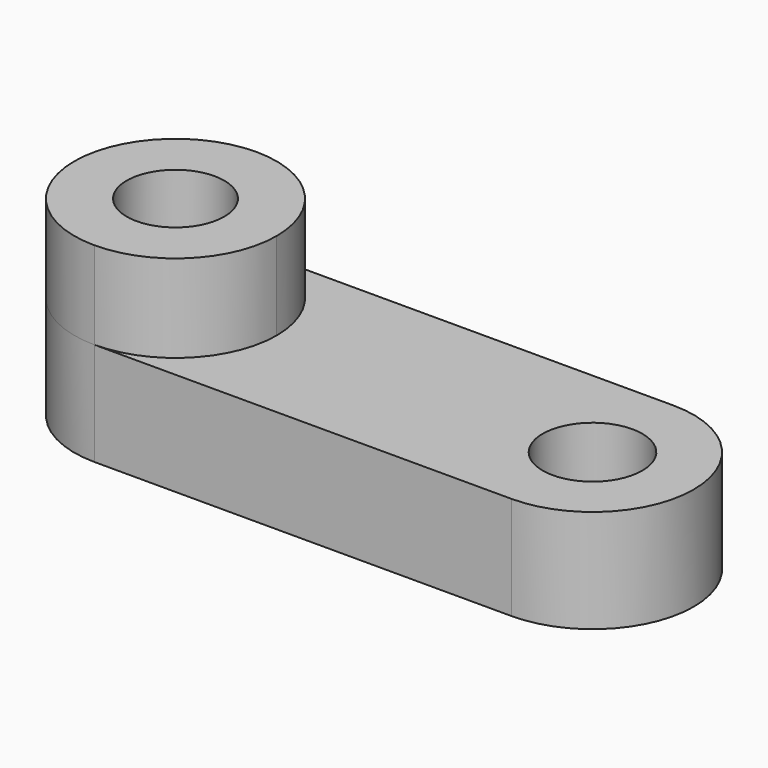
from build123d import *

# Parameters (mm, degrees)
F0_R     = 12.734731
F1_DEPTH = 49.784
F0_R_2   = 13.010998
F2_DEPTH = 26.924


with BuildPart() as f1:
    # F0 (on Top) → F1 (new body)
    with BuildSketch(Plane.XY):
        with BuildLine():
            ThreePointArc((-54.41216, 26.401961), (-80.814121, 0), (-54.41216, -26.401961))
            ThreePointArc((-54.41216, -26.401961), (-35.743154, -18.669006), (-28.010199, 0))
            ThreePointArc((-28.010199, 0), (-35.743154, 18.669006), (-54.41216, 26.401961))
        make_face()
        with Locations((-54.41216, 0)):
            Circle(F0_R, mode=Mode.SUBTRACT)
    extrude(amount=F1_DEPTH)


with BuildPart() as f2:
    # F0 (on Top) → F2 (new body)
    with BuildSketch(Plane.XY):
        with BuildLine():
            Line((-54.41216, -26.401961), (54.41216, -26.401961))
            ThreePointArc((54.41216, -26.401961), (80.814121, 0), (54.41216, 26.401961))
            Line((54.41216, 26.401961), (-54.41216, 26.401961))
            ThreePointArc((-54.41216, 26.401961), (-35.743154, 18.669006), (-28.010199, 0))
            ThreePointArc((-28.010199, 0), (-35.743154, -18.669006), (-54.41216, -26.401961))
        make_face()
        with Locations((54.41216, 0)):
            Circle(F0_R_2, mode=Mode.SUBTRACT)
        with BuildLine():
            ThreePointArc((-54.41216, 26.401961), (-80.814121, 0), (-54.41216, -26.401961))
            ThreePointArc((-54.41216, -26.401961), (-35.743154, -18.669006), (-28.010199, 0))
            ThreePointArc((-28.010199, 0), (-35.743154, 18.669006), (-54.41216, 26.401961))
        make_face()
        with Locations((-54.41216, 0)):
            Circle(F0_R, mode=Mode.SUBTRACT)
    extrude(amount=F2_DEPTH)


solid = Compound([f1.part, f2.part])
